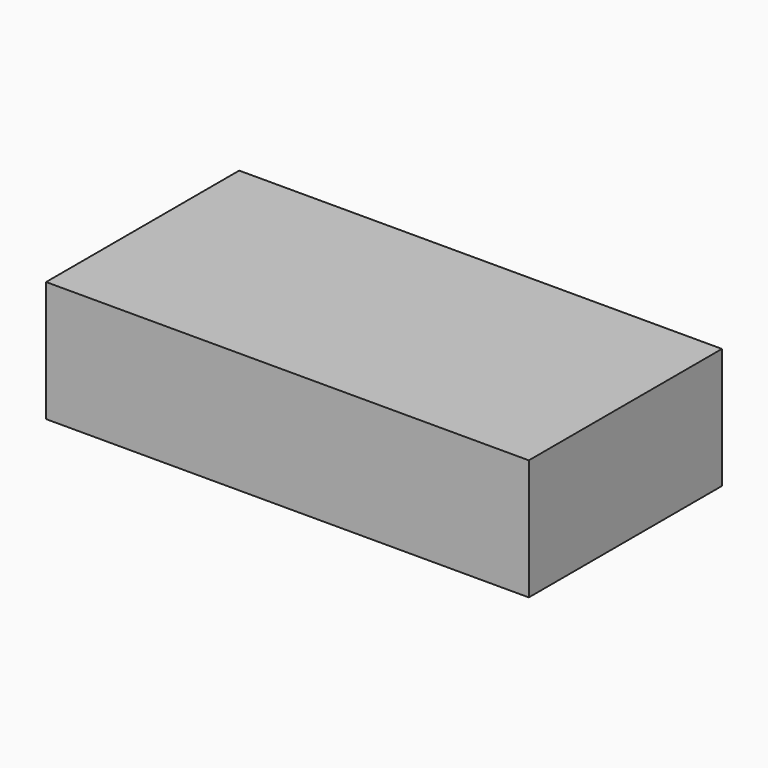
from build123d import *

# Parameters (mm, degrees)
F0_W     = 152.4
F0_H     = 76.2
F1_DEPTH = 38.1
F2_T     = -2.54
F3_W     = 30.8243110776
F3_H     = 7.8012128361
F3_W_2   = 6.2790252268
F3_H_2   = 30.0632109866
F3_W_3   = 30.8243031614
F3_H_3   = 28.7312981673
F3_W_4   = 8.3720344119
F3_H_4   = 29.8729380593
F3_W_5   = 31.2048504129
F3_W_6   = 6.0887485743
F3_H_5   = 29.6826614067
F3_W_7   = 30.443765223
F4_DEPTH = 38.1


with BuildPart() as f1:
    # F0 (on Top) → F1 (new body)
    with BuildSketch(Plane.XY):
        Rectangle(F0_W, F0_H)
    extrude(amount=F1_DEPTH)

    # F2
    f2_openings = [f1.faces().sort_by_distance(p)[0] for p in [
        (0, 0, 0),
    ]]
    offset(amount=F2_T, openings=f2_openings)

    # F3 (on Top) → F4 (join)
    with BuildSketch(Plane.XY):
        with Locations((-56.5112270415, -0.1902736258)):
            Rectangle(F3_W, F3_H)
        with Locations((-37.9595588893, -0.1902736258)):
            Rectangle(F3_W_2, F3_H)
        with Locations((-37.9595588893, -19.1224855371)):
            Rectangle(F3_W_2, F3_H_2)
        with Locations((-19.4078946952, -0.1902736258)):
            Rectangle(F3_W_3, F3_H)
        with Locations((-37.9595588893, 18.0759818759)):
            Rectangle(F3_W_2, F3_H_3)
        with Locations((0.1902740914, -0.1902736258)):
            Rectangle(F3_W_4, F3_H)
        with Locations((0.1902740914, -19.0273490734)):
            Rectangle(F3_W_4, F3_H_4)
        with Locations((19.9787165038, -0.1902736258)):
            Rectangle(F3_W_5, F3_H)
        with Locations((0.1902740914, 18.0759818759)):
            Rectangle(F3_W_4, F3_H_3)
        with Locations((38.6255159974, -0.1902736258)):
            Rectangle(F3_W_6, F3_H)
        with Locations((38.6255159974, -18.9322107472)):
            Rectangle(F3_W_6, F3_H_5)
        with Locations((56.8917728961, -0.1902736258)):
            Rectangle(F3_W_7, F3_H)
        with Locations((38.6255159974, 18.0759818759)):
            Rectangle(F3_W_6, F3_H_3)
    extrude(amount=F4_DEPTH)


solid = f1.part
